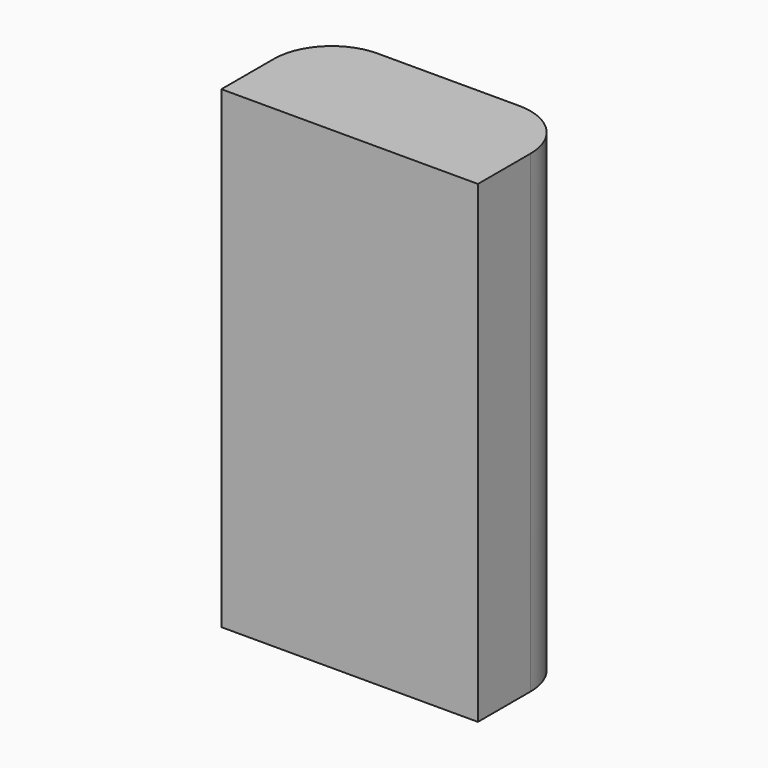
from build123d import *

# Parameters (mm, degrees)
F1_DEPTH = 28.8


with BuildPart() as f1:
    # F0 (on Top) → F1 (new body, symmetric)
    with BuildSketch(Plane.XY):
        with BuildLine():
            Line((24.2, 15), (7, 15))
            ThreePointArc((7, 15), (2.0502525317, 12.9497474683), (0, 8))
            Line((0, 8), (0, 0))
            Line((0, 0), (31.2, 0))
            Line((31.2, 0), (31.2, 8))
            ThreePointArc((31.2, 8), (29.1497474683, 12.9497474683), (24.2, 15))
        make_face()
    extrude(amount=F1_DEPTH, both=True)


solid = f1.part
